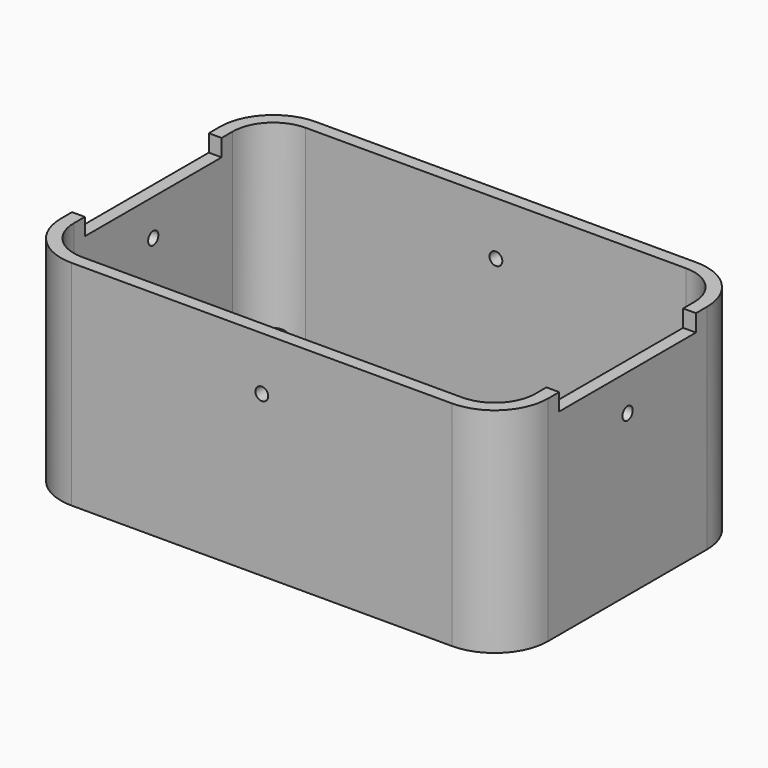
from build123d import *

# Parameters (mm, degrees)
SKETCH_R           = 1
SKETCH_W           = 78.96
SKETCH_H           = 50.34
PAD_DEPTH          = 5
SKETCH001_W        = 74.96
SKETCH001_H        = 46.34
PAD001_DEPTH       = 2
SKETCH002_R        = 3
SKETCH002_R_2      = 1
PAD002_DEPTH       = 10
PAD003_DEPTH       = 50
SKETCH004_W        = 40
SKETCH004_H        = 4
POCKET_DEPTH       = 57.001
POCKET_DEPTH_BACK  = -57.001
SKETCH005_R        = 1.5
POCKET001_DEPTH    = 322.817597
POLARPATTERN_COUNT = 4


with BuildPart() as part:
    # Sketch → Pad (new body)
    with BuildSketch(Plane.XY):
        with BuildLine():
            Line((-42.48, 28.17), (-3, 28.17))
            ThreePointArc((3, 28.17), (0, 31.17), (-3, 28.17))
            Line((3, 28.17), (42.48, 28.17))
            Line((42.48, 28.17), (42.48, 3))
            ThreePointArc((42.48, -3), (45.48, 0), (42.48, 3))
            Line((42.48, -3), (42.48, -28.17))
            Line((3, -28.17), (42.48, -28.17))
            ThreePointArc((-3, -28.17), (0, -31.17), (3, -28.17))
            Line((-42.48, -28.17), (-3, -28.17))
            Line((-42.48, -3), (-42.48, -28.17))
            ThreePointArc((-42.48, 3), (-45.48, 0), (-42.48, -3))
            Line((-42.48, 28.17), (-42.48, 3))
        make_face()
        with Locations((42.48, 0)):
            Circle(SKETCH_R, mode=Mode.SUBTRACT)
        with Locations((0, -28.17)):
            Circle(SKETCH_R, mode=Mode.SUBTRACT)
        with Locations((-42.48, 0)):
            Circle(SKETCH_R, mode=Mode.SUBTRACT)
        with Locations((0, 28.17)):
            Circle(SKETCH_R, mode=Mode.SUBTRACT)
        Rectangle(SKETCH_W, SKETCH_H, mode=Mode.SUBTRACT)
    extrude(amount=PAD_DEPTH)

    # Sketch001 → Pad001 (join)
    with BuildSketch(Plane.XY):
        with BuildLine():
            Line((-57, 23.235), (-57, -23.235))
            ThreePointArc((-57, -23.235), (-53.338835, -32.073835), (-44.5, -35.735))
            Line((-44.5, -35.735), (44.5, -35.735))
            ThreePointArc((44.5, -35.735), (53.338835, -32.073835), (57, -23.235))
            Line((57, -23.235), (57, 23.235))
            ThreePointArc((57, 23.235), (53.338835, 32.073835), (44.5, 35.735))
            Line((44.5, 35.735), (-44.5, 35.735))
            ThreePointArc((-44.5, 35.735), (-53.338835, 32.073835), (-57, 23.235))
        make_face()
        Rectangle(SKETCH001_W, SKETCH001_H, mode=Mode.SUBTRACT)
    extrude(amount=PAD001_DEPTH)

    # Sketch002 → Pad002 (join)
    with BuildSketch(Plane.XY):
        with Locations((-46, 24.735)):
            Circle(SKETCH002_R)
        with Locations((-46, 24.735)):
            Circle(SKETCH002_R_2, mode=Mode.SUBTRACT)
        with Locations((46, 24.735)):
            Circle(SKETCH002_R)
        with Locations((46, 24.735)):
            Circle(SKETCH002_R_2, mode=Mode.SUBTRACT)
        with Locations((46, -24.735)):
            Circle(SKETCH002_R)
        with Locations((46, -24.735)):
            Circle(SKETCH002_R_2, mode=Mode.SUBTRACT)
        with Locations((-46, -24.735)):
            Circle(SKETCH002_R)
        with Locations((-46, -24.735)):
            Circle(SKETCH002_R_2, mode=Mode.SUBTRACT)
    extrude(amount=PAD002_DEPTH)

    # Sketch003 → Pad003 (join)
    with BuildSketch(Plane.XY):
        with BuildLine():
            Line((-44.5, 35.735), (44.5, 35.735))
            ThreePointArc((57, 23.235), (53.338835, 32.073835), (44.5, 35.735))
            Line((57, 23.235), (57, -23.235))
            ThreePointArc((44.5, -35.735), (53.338835, -32.073835), (57, -23.235))
            Line((44.5, -35.735), (-44.5, -35.735))
            ThreePointArc((-57, -23.235), (-53.338835, -32.073835), (-44.5, -35.735))
            Line((-57, -23.235), (-57, 23.235))
            ThreePointArc((-44.5, 35.735), (-53.338835, 32.073835), (-57, 23.235))
        make_face()
        with BuildLine():
            Line((-54, 23.235), (-54, -23.235))
            ThreePointArc((-54, -23.235), (-51.217514, -29.952514), (-44.5, -32.735))
            Line((-44.5, -32.735), (44.5, -32.735))
            ThreePointArc((44.5, -32.735), (51.217514, -29.952514), (54, -23.235))
            Line((54, -23.235), (54, 23.235))
            ThreePointArc((54, 23.235), (51.217514, 29.952514), (44.5, 32.735))
            Line((44.5, 32.735), (-44.5, 32.735))
            ThreePointArc((-44.5, 32.735), (-51.217514, 29.952514), (-54, 23.235))
        make_face(mode=Mode.SUBTRACT)
    extrude(amount=PAD003_DEPTH)

    # Sketch004 → Pocket (cut, two sides)
    with BuildSketch(Plane.YZ) as pocket_sk:
        with Locations((0, 48)):
            Rectangle(SKETCH004_W, SKETCH004_H)
    extrude(amount=-POCKET_DEPTH, mode=Mode.SUBTRACT)
    extrude(pocket_sk.sketch, amount=-POCKET_DEPTH_BACK, mode=Mode.SUBTRACT)

    # Sketch005 → Pocket001 (cut, through all)
    with BuildSketch(Plane.XZ):
        with Locations((0, 37.5)):
            Circle(SKETCH005_R)
    pocket001 = extrude(amount=-POCKET001_DEPTH, mode=Mode.SUBTRACT)

    # PolarPattern: Pocket001 ×4 about axis
    polarpattern_axis = Axis((0, 0, 0), (0, 0, 1))
    for i in range(1, POLARPATTERN_COUNT):
        add(pocket001.rotate(polarpattern_axis, i * 360 / POLARPATTERN_COUNT), mode=Mode.SUBTRACT)


solid = part.part
